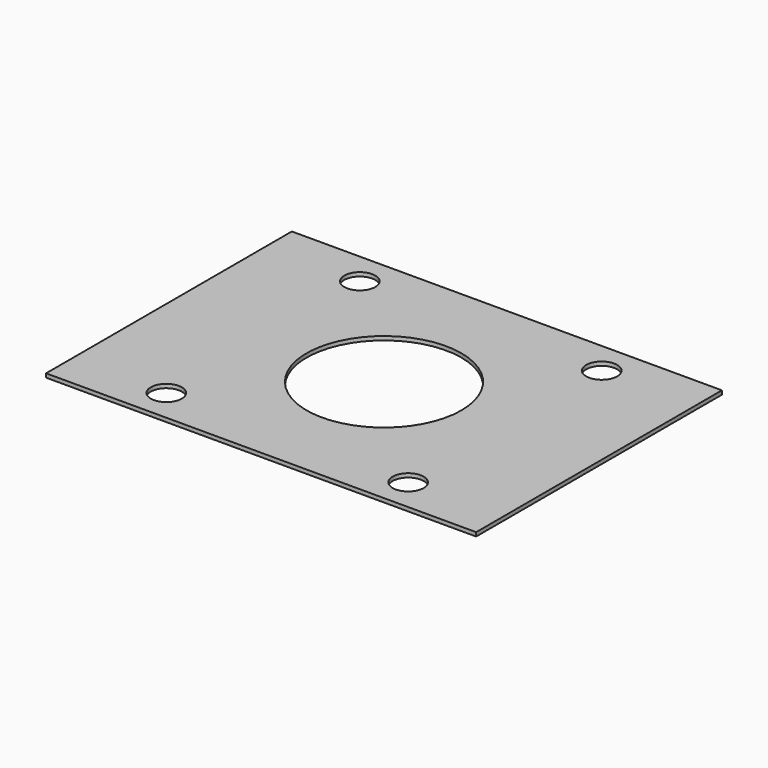
from build123d import *

# Parameters (mm, degrees)
SKETCH_W   = 44.45
SKETCH_H   = 31.75
SKETCH_R   = 1.6
SKETCH_R_2 = 8
PAD_DEPTH  = 0.4


with BuildPart() as part:
    # Sketch → Pad (new body)
    with BuildSketch(Plane.XY):
        Rectangle(SKETCH_W, SKETCH_H)
        with Locations((-12.5, 12.5)):
            Circle(SKETCH_R, mode=Mode.SUBTRACT)
        with Locations((12.5, 12.5)):
            Circle(SKETCH_R, mode=Mode.SUBTRACT)
        with Locations((12.5, -12.5)):
            Circle(SKETCH_R, mode=Mode.SUBTRACT)
        with Locations((-12.5, -12.5)):
            Circle(SKETCH_R, mode=Mode.SUBTRACT)
        Circle(SKETCH_R_2, mode=Mode.SUBTRACT)
    extrude(amount=PAD_DEPTH)


solid = part.part
